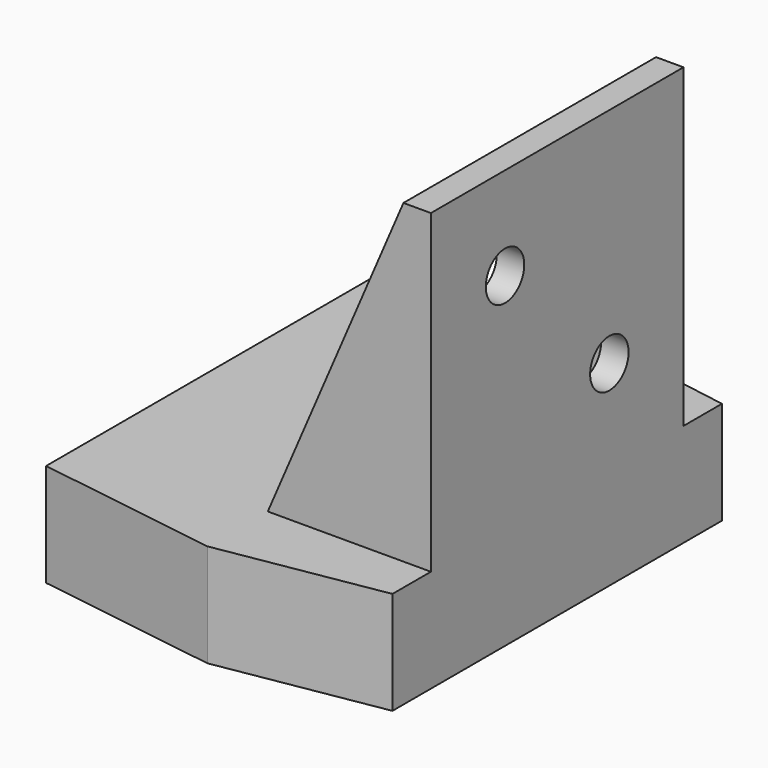
from build123d import *

# Parameters (mm, degrees)
SKETCH_W                = 23
SKETCH_H                = 23
PAD_DEPTH               = 2
PAD001_DEPTH            = 7.5
SKETCH016_R             = 1.5
POCKET_DEPTH            = 7.25
SKETCH012_R             = 1.75
POCKET001_DEPTH         = 5
PAD002_DEPTH            = 2
CHAMFER_SIZE            = 1
BODY001_PLACEMENT_ANGLE = 180


with BuildPart() as part:
    # Sketch → Pad (new body)
    with BuildSketch(Plane.YZ):
        Rectangle(SKETCH_W, SKETCH_H)
    extrude(amount=PAD_DEPTH)

    # Sketch017 (on Face4 of Pad) → Pad001 (join)
    with BuildSketch(Plane(origin=(0, 0, 11.5), x_dir=(0, -1, 0), z_dir=(0, 0, 1))):
        Polygon((-15, -23.23103), (15, -23.23103), (17, -9.88), (15, 2), (-15, 2), (-17, -9.88), align=None)
    extrude(amount=PAD001_DEPTH)

    # Sketch016 (on Face13 of Pad001) → Pocket (cut)
    with BuildSketch(Plane(origin=(0, 0, 19), x_dir=(0, -1, 0), z_dir=(0, 0, 1))):
        with Locations((11.75, -2.18)):
            Circle(SKETCH016_R)
        with Locations((-11.75, -2.18)):
            Circle(SKETCH016_R)
    extrude(amount=-POCKET_DEPTH, mode=Mode.SUBTRACT)

    # Sketch012 (on Face4 of Pad001) → Pocket001 (cut)
    with BuildSketch(Plane(origin=(0, 0, 0), x_dir=(0, 1, 0), z_dir=(-1, 0, 0))):
        with Locations((-4.75, -4.735)):
            Circle(SKETCH012_R)
        with Locations((4.75, 4.735)):
            Circle(SKETCH012_R)
    extrude(amount=-POCKET001_DEPTH, mode=Mode.SUBTRACT)

    # Sketch018 (on Face1 of Pocket001) → Pad002 (join)
    with BuildSketch(Plane(origin=(0, -11.5, 0), x_dir=(0, 0, -1), z_dir=(0, -1, 0))):
        Polygon((-11.5, -9.88), (11.5, 0), (-11.5, 0), align=None)
    pad002 = extrude(amount=-PAD002_DEPTH)

    # Mirrored: Pad002 across XZ
    add(pad002.mirror(Plane.XZ))

    # Chamfer
    chamfer_edges = [part.edges().sort_by_distance(p)[0] for p in [
        (-2.18, 13.25, 19),
        (-2.18, -10.25, 19),
    ]]
    chamfer(chamfer_edges, length=CHAMFER_SIZE)


with BuildPart() as part_1:
    # Body001 placement: moved
    add(part.part.rotate(Axis((0, 0, 0), (1, 0, 0)), BODY001_PLACEMENT_ANGLE))


solid = part_1.part
